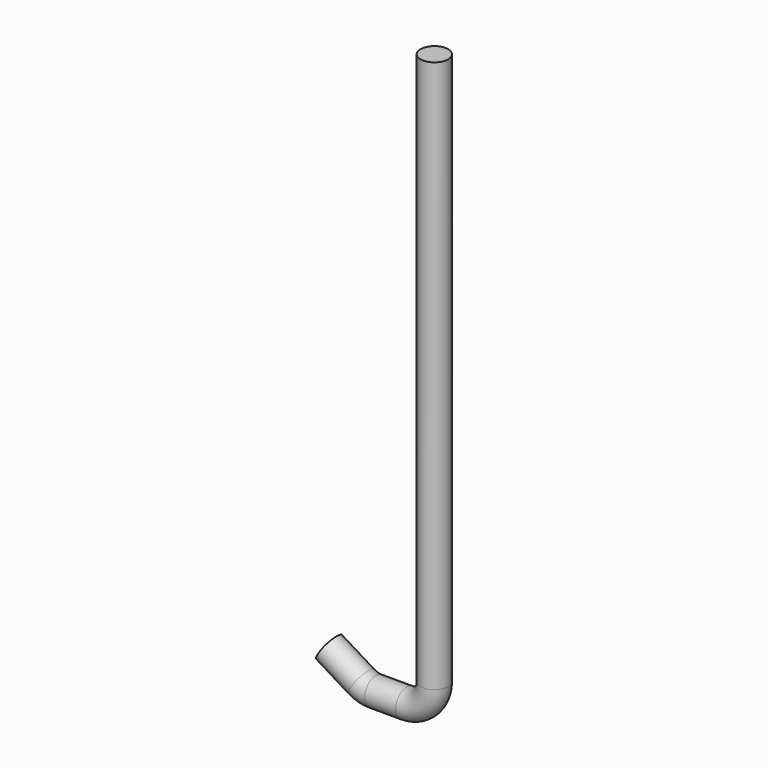
from build123d import *

# Parameters (mm, degrees)
F2_R = 6.35


with BuildPart() as f3:
    # F3: sweep along a path in F0
    with BuildLine(Plane.XZ) as f3_path:
        Line((0, 200.0068057895), (0, -53.9931942105))
        ThreePointArc((0, -53.9931942105), (-3.7197438789, -62.9734503316), (-12.7, -66.6931942105))
        Line((-12.7, -66.6931942105), (-26.9275688326, -66.6931942105))
        ThreePointArc((-26.9275688326, -66.6931942105), (-30.3686719993, -66.2181199361), (-33.5523295612, -64.8284397218))
        Line((-33.5523295612, -64.8284397218), (-48.3552962542, -55.7777807117))
    # F2 (on plane+point) → F3 (sweep)
    with BuildSketch(Plane.XY.offset(200.0068057895)):
        Circle(F2_R)
    sweep(path=f3_path.line)


solid = f3.part
